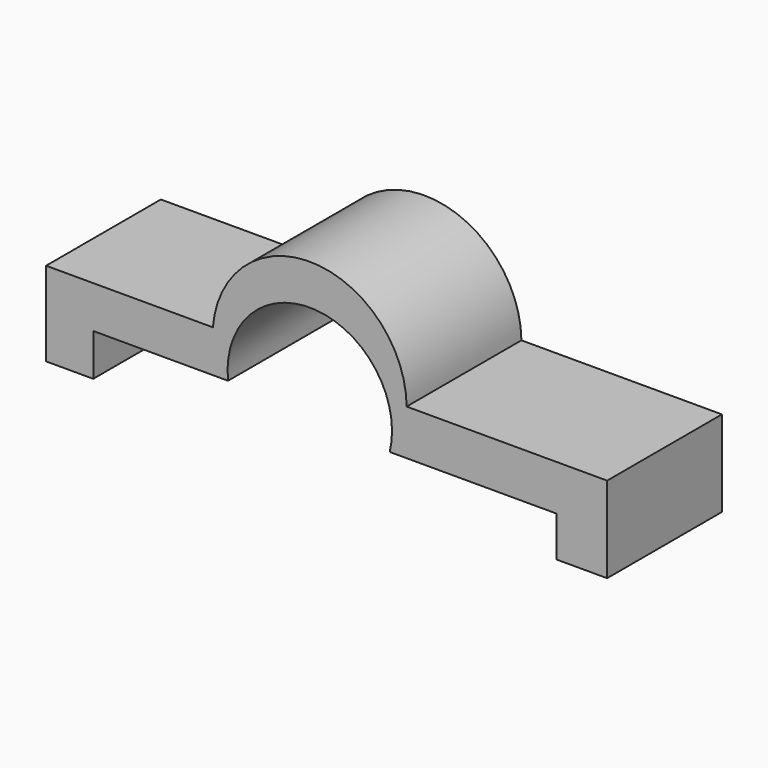
from build123d import *

# Parameters (mm, degrees)
F1_DEPTH = 25


with BuildPart() as f1:
    # F0 (on Front) → F1 (new body)
    with BuildSketch(Plane.XZ):
        with BuildLine():
            Line((50.648533, -37.582681), (50.648533, -44.629429))
            Line((50.648533, -44.629429), (59.456974, -44.629429))
            Line((59.456974, -44.629429), (59.456974, -29.655084))
            Line((59.456974, -29.655084), (24.516825, -29.655084))
            ThreePointArc((24.516825, -29.655084), (8.195501, -12.924194), (-9.248863, -28.480623))
            Line((-9.248863, -28.480623), (-38.316716, -28.480623))
            Line((-38.316716, -28.480623), (-38.316716, -43.161355))
            Line((-38.316716, -43.161355), (-30.095505, -43.161355))
            Line((-30.095505, -43.161355), (-30.095505, -35.820991))
            Line((-30.095505, -35.820991), (-6.60633, -35.820991))
            ThreePointArc((-6.60633, -35.820991), (8.532595, -19.975134), (21.580679, -37.582681))
            Line((21.580679, -37.582681), (50.648533, -37.582681))
        make_face()
    extrude(amount=F1_DEPTH)


solid = f1.part
